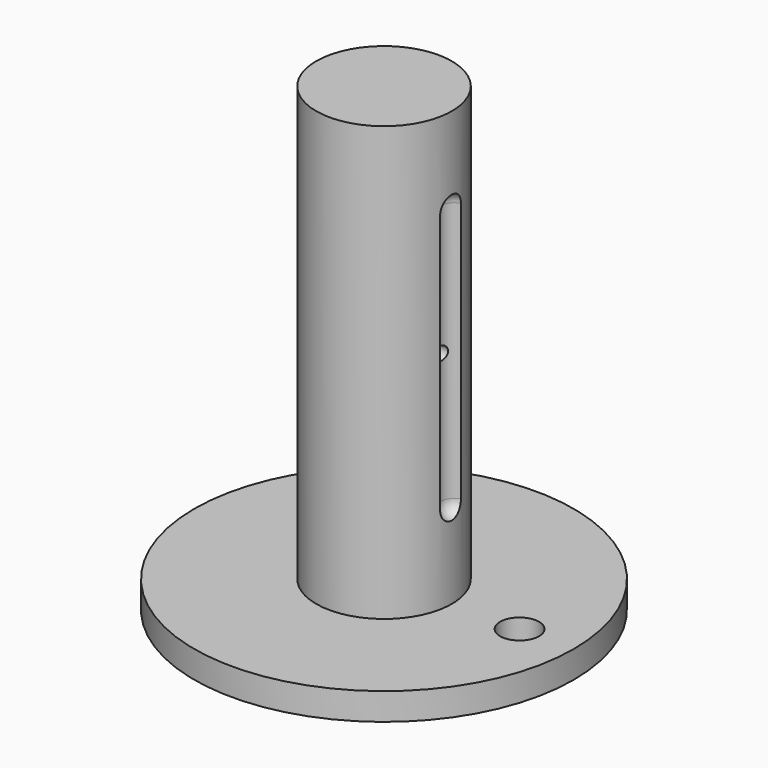
from build123d import *

# Parameters (mm, degrees)
SKETCH002_R     = 1.25
POCKET_DEPTH    = 13
SKETCH003_R     = 3.6
POCKET001_DEPTH = 5.001
SKETCH005_R     = 4.25
HOLE_DEPTH      = 55
HOLE_TIPS_R     = 4.25


with BuildPart() as part:
    # Sketch → Revolution (revolve)
    with BuildSketch(Plane.XZ):
        Polygon((0, 85), (-12.5, 85), (-12.5, 5), (-35, 5), (-35, 0), (0, 0), align=None)
    revolve(axis=Axis((0, 0, 0), (0, 0, 1)))

    # Sketch001 (on DatumPlane) → Groove (revolve, cut)
    with BuildSketch(Plane.XZ):
        with BuildLine():
            Line((10.5, 69), (10.5, 21))
            ThreePointArc((10.5, 21), (11.232233, 19.232233), (13, 18.5))
            Line((13, 71.5), (13, 18.5))
            ThreePointArc((13, 71.5), (11.232233, 70.767767), (10.5, 69))
        make_face()
    revolve(axis=Axis((13, 0, 85.244576), (0, 0, -1)), mode=Mode.SUBTRACT)

    # Sketch002 (on DatumPlane) → Pocket (cut)
    with BuildSketch(Plane.YZ.offset(13)):
        with Locations((0, 45)):
            Circle(SKETCH002_R)
    extrude(amount=-POCKET_DEPTH, mode=Mode.SUBTRACT)

    # Sketch003 (on Face3 of Pocket) → Pocket001 (cut, through all)
    with BuildSketch(Plane(origin=(0, 0, 5), x_dir=(-1, 0, 0), z_dir=(0, 0, 1))):
        with Locations((-25, 0)):
            Circle(SKETCH003_R)
    extrude(amount=-POCKET001_DEPTH, mode=Mode.SUBTRACT)

    # Sketch005 (on Face13 of Pocket001) → Hole (cut)
    with BuildSketch(Plane(origin=(0, 0, 0), x_dir=(1, 0, 0), z_dir=(0, 0, -1))):
        Circle(SKETCH005_R)
    extrude(amount=-HOLE_DEPTH, mode=Mode.SUBTRACT)

    # Hole tips → Hole tip 1 section 0
    with BuildSketch(Plane(origin=(0, 0, 55), x_dir=(1, 0, 0), z_dir=(0, 0, -1)), mode=Mode.PRIVATE) as hole_tip_1_s0:
        Circle(HOLE_TIPS_R)
    loft([hole_tip_1_s0.sketch, Vertex(0, 0, 57.553658)], mode=Mode.SUBTRACT)


solid = part.part
